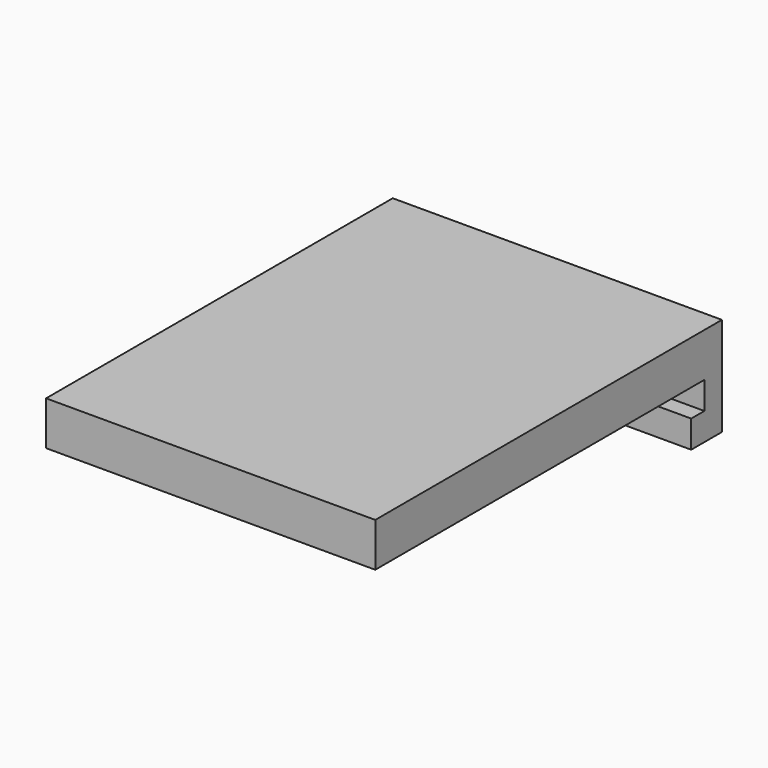
from build123d import *

# Parameters (mm, degrees)
F0_W     = 38.1
F0_H     = 25.4
F1_DEPTH = 5.08
F2_W     = 38.1
F2_H     = 5.08
F3_DEPTH = 22.225
F4_W     = 2.527571
F4_H     = 5.08
F5_DEPTH = 38.1
F6_W     = 38.1
F6_H     = 2.54
F7_DEPTH = 6.35
F8_W     = 38.1
F8_H     = 3.175
F9_DEPTH = 1.905


with BuildPart() as f1:
    # F0 (on Top) → F1 (new body)
    with BuildSketch(Plane.XY):
        Rectangle(F0_W, F0_H)
    extrude(amount=F1_DEPTH)

    # F2 (on face) → F3 (join)
    with BuildSketch(Plane(origin=(0, 12.7, 0), x_dir=(-1, 0, 0), z_dir=(0, 1, 0))):
        with Locations((0, 2.54)):
            Rectangle(F2_W, F2_H)
    extrude(amount=F3_DEPTH)

    # F4 (on face) → F5 (join)
    with BuildSketch(Plane(origin=(-19.05, 0, 0), x_dir=(0, -1, 0), z_dir=(-1, 0, 0))):
        with Locations((-36.188785, 2.54)):
            Rectangle(F4_W, F4_H)
    extrude(amount=-F5_DEPTH)

    # F6 (on face) → F7 (join)
    with BuildSketch(Plane(origin=(0, 0, 0), x_dir=(1, 0, 0), z_dir=(0, 0, -1))):
        with Locations((0, -36.182571)):
            Rectangle(F6_W, F6_H)
    extrude(amount=F7_DEPTH)

    # F8 (on face) → F9 (join)
    with BuildSketch(Plane.XZ.offset(-34.912571)):
        with Locations((0, -4.7625)):
            Rectangle(F8_W, F8_H)
    extrude(amount=F9_DEPTH)


solid = f1.part
